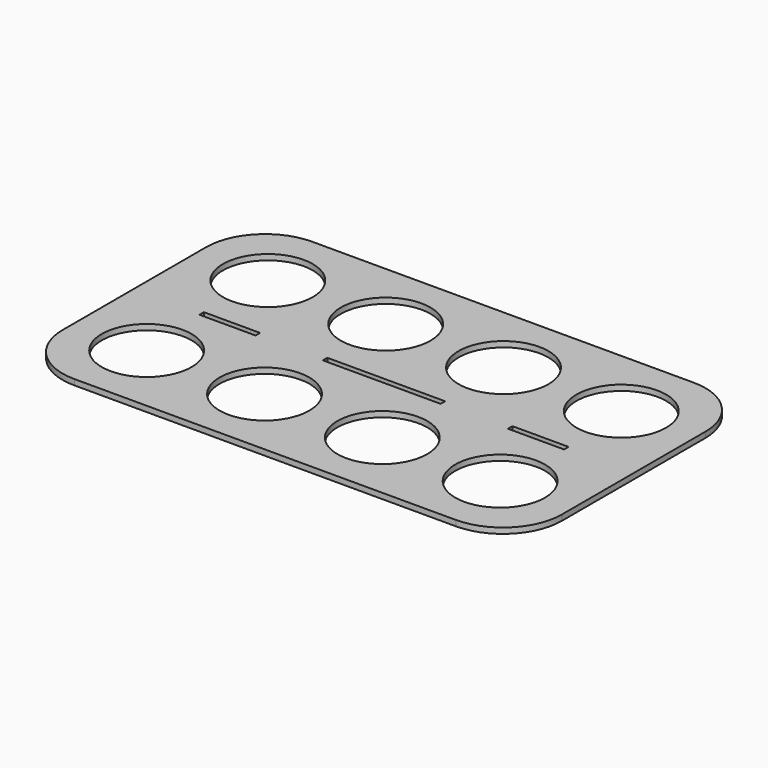
from build123d import *

# Parameters (mm, degrees)
F0_R     = 40
F0_W     = 50
F0_H     = 5
F0_W_2   = 105
F1_DEPTH = 5


with BuildPart() as f1:
    # F0 (on Top) → F1 (new body)
    with BuildSketch(Plane.XY):
        with BuildLine():
            ThreePointArc((146.013644, 147.5), (130.63675, 184.623106), (93.513644, 200))
            Line((93.513644, 200), (-246.486356, 200))
            ThreePointArc((-246.486356, 200), (-283.609462, 184.623106), (-298.986356, 147.5))
            Line((-298.986356, 147.5), (-298.986356, -12.5))
            ThreePointArc((-298.986356, -12.5), (-283.609462, -49.623106), (-246.486356, -65))
            Line((-246.486356, -65), (93.513644, -65))
            ThreePointArc((93.513644, -65), (130.63675, -49.623106), (146.013644, -12.5))
            Line((146.013644, -12.5), (146.013644, 64.999983))
            Line((146.013644, 64.999983), (146.013644, 69.999983))
            Line((146.013644, 69.999983), (146.013644, 147.5))
        make_face()
        with Locations((-233.986356, 0)):
            Circle(F0_R, mode=Mode.SUBTRACT)
        with Locations((-128.986356, 0)):
            Circle(F0_R, mode=Mode.SUBTRACT)
        with Locations((-23.986356, 0)):
            Circle(F0_R, mode=Mode.SUBTRACT)
        with Locations((81.013644, 0)):
            Circle(F0_R, mode=Mode.SUBTRACT)
        with Locations((-213.986356, 67.5)):
            Rectangle(F0_W, F0_H, mode=Mode.SUBTRACT)
        with Locations((-233.986356, 135)):
            Circle(F0_R, mode=Mode.SUBTRACT)
        with Locations((-128.986356, 135)):
            Circle(F0_R, mode=Mode.SUBTRACT)
        with Locations((-76.486356, 67.5)):
            Rectangle(F0_W_2, F0_H, mode=Mode.SUBTRACT)
        with Locations((61.013644, 67.5)):
            Rectangle(F0_W, F0_H, mode=Mode.SUBTRACT)
        with Locations((-23.986356, 135)):
            Circle(F0_R, mode=Mode.SUBTRACT)
        with Locations((81.013644, 135)):
            Circle(F0_R, mode=Mode.SUBTRACT)
    extrude(amount=F1_DEPTH)


solid = f1.part
